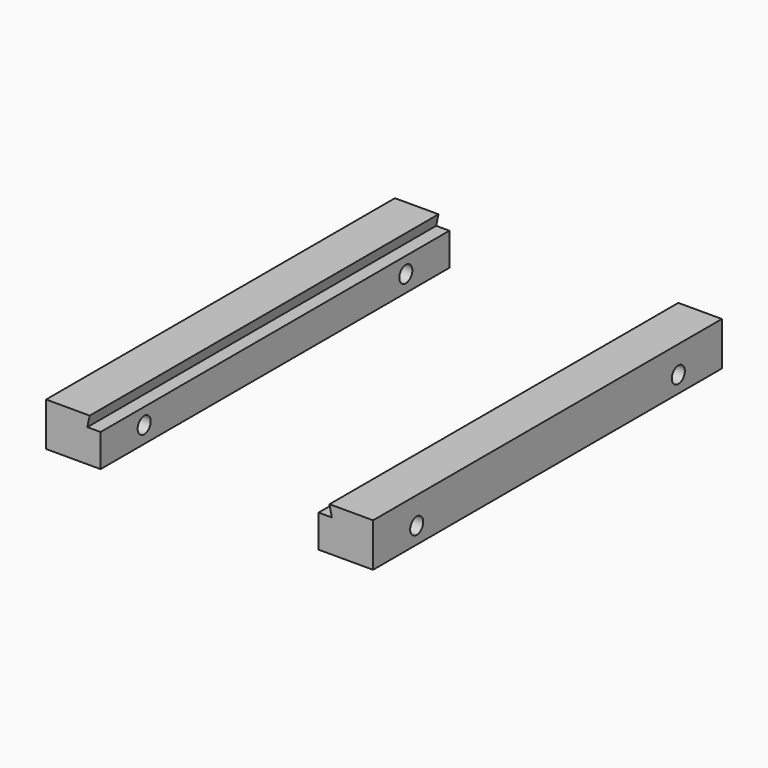
from build123d import *

# Parameters (mm, degrees)
F1_DEPTH = 80
F3_R     = 1.5
F4_DEPTH = 70


with BuildPart() as f1:
    # F0 (on Front) → F1 (new body)
    with BuildSketch(Plane.XZ):
        Polygon((-22, 8), (-30, 8), (-30, 0), (-20, 0), (-20, 6), (-22.425113, 6), align=None)
    extrude(amount=F1_DEPTH)


with BuildPart() as f2_1:
    # F2: instance of F1
    add(f1.part.mirror(Plane.YZ))


with BuildPart() as f4_tool:
    # F3 (on face) → F4 (new body)
    with BuildSketch(Plane.YZ.offset(30)):
        with Locations((-70, 3.061812)):
            Circle(F3_R)
        with Locations((-10, 3.061812)):
            Circle(F3_R)
    extrude(amount=-F4_DEPTH)


with BuildPart() as f1_1:
    add(f1.part)

    # F4: cut by f4_tool
    add(f4_tool.part, mode=Mode.SUBTRACT)


with BuildPart() as f2_1_1:
    add(f2_1.part)

    # F4: cut by f4_tool
    add(f4_tool.part, mode=Mode.SUBTRACT)


solid = Compound([f1_1.part, f2_1_1.part])
